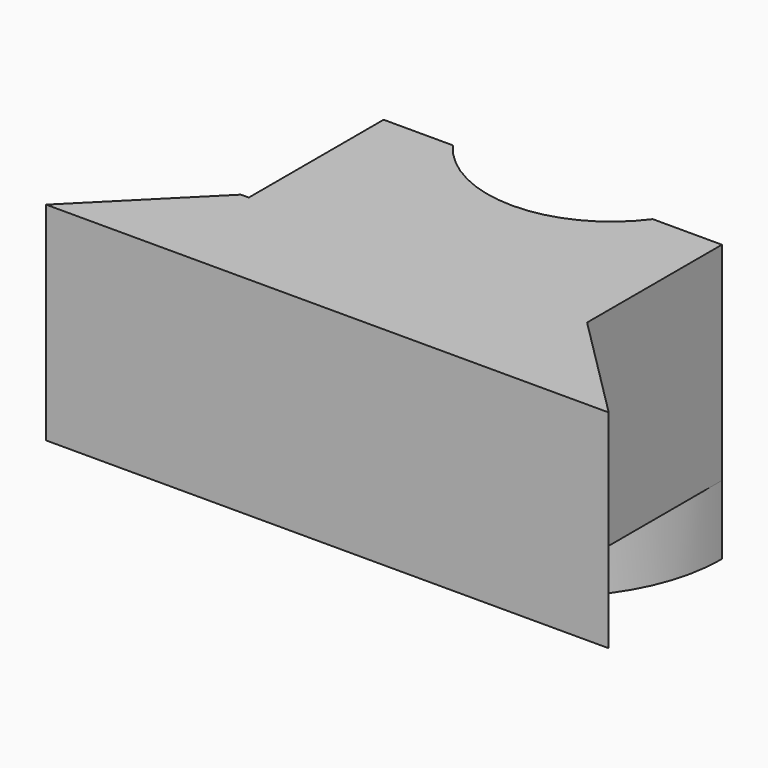
from build123d import *

# Parameters (mm, degrees)
F1_DEPTH = 30
F3_DEPTH = 10


with BuildPart() as f1:
    # F0 (on Top) → F1 (new body)
    with BuildSketch(Plane.XY):
        with BuildLine():
            Line((-20.24072, -21.750638), (-35.883336, -37.393254))
            Line((-35.883336, -37.393254), (44.116664, -37.393254))
            Line((44.116664, -37.393254), (45.432664, -37.393254))
            Line((45.432664, -37.393254), (29.790048, -21.750638))
            Line((29.790048, -21.750638), (29.790048, 2.606746))
            Line((29.790048, 2.606746), (19.790048, 2.606746))
            ThreePointArc((19.790048, 2.606746), (5.344207, -11.839095), (-9.101634, 2.606746))
            Line((-9.101634, 2.606746), (-19.101634, 2.606746))
            Line((-19.101634, 2.606746), (-19.101634, -21.750638))
            Line((-19.101634, -21.750638), (-20.24072, -21.750638))
        make_face()
        with BuildLine():
            ThreePointArc((19.790048, 2.606746), (5.344207, -4.716691), (-9.101634, 2.606746))
            ThreePointArc((-9.101634, 2.606746), (5.344207, -11.839095), (19.790048, 2.606746))
        make_face()
    extrude(amount=F1_DEPTH)

    # F2 (on face) → F3 (join)
    with BuildSketch(Plane(origin=(0, 0, 0), x_dir=(1, 0, 0), z_dir=(0, 0, -1))):
        with BuildLine():
            Line((19.790048, -2.606746), (29.790048, -2.606746))
            ThreePointArc((29.790048, -2.606746), (5.344207, 21.839095), (-19.101634, -2.606746))
            Line((-19.101634, -2.606746), (-9.101634, -2.606746))
            ThreePointArc((-9.101634, -2.606746), (5.344207, 4.716691), (19.790048, -2.606746))
        make_face()
    extrude(amount=F3_DEPTH)


solid = f1.part
